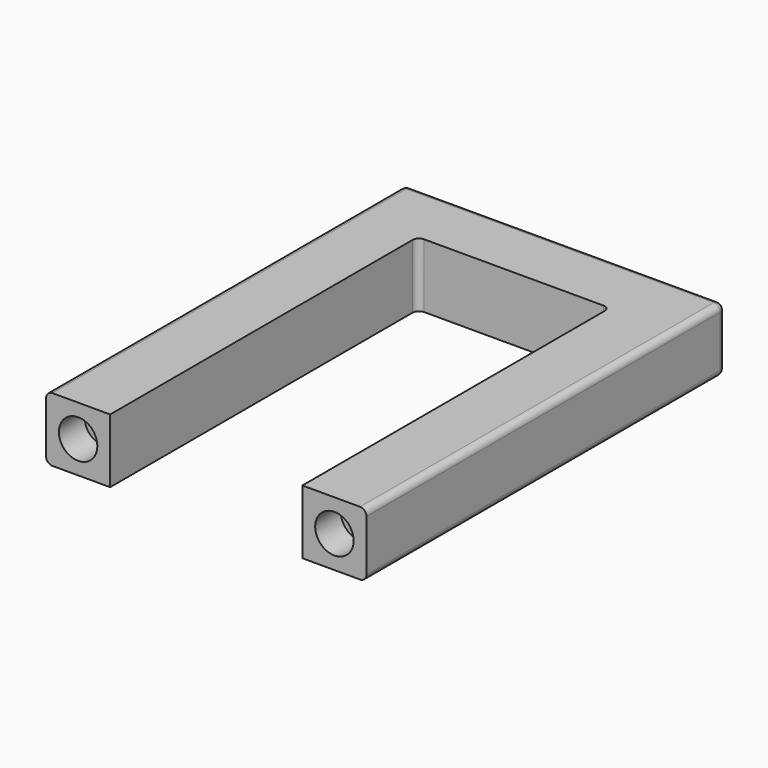
from build123d import *

# Parameters (mm, degrees)
PAD_DEPTH    = 10
FILLET_R     = 1
FILLET001_R  = 1
FILLET002_R  = 1
FILLET003_R  = 1
FILLET004_R  = 1
FILLET005_R  = 1
SKETCH001_R  = 3
POCKET_DEPTH = 5


with BuildPart() as part:
    # Sketch → Pad (new body)
    with BuildSketch(Plane.XY):
        Polygon((20, 70), (20, 10), (10, 10), (10, 80), (60, 80), (60, 10), (50, 10), (50, 70), align=None)
    extrude(amount=PAD_DEPTH)

    # Fillet
    fillet_edges = [part.edges().sort_by_distance(p)[0] for p in [
        (35, 80, 10),
    ]]
    fillet(fillet_edges, radius=FILLET_R)

    # Fillet001
    fillet001_edges = [part.edges().sort_by_distance(p)[0] for p in [
        (60, 44.5, 10),
    ]]
    fillet(fillet001_edges, radius=FILLET001_R)

    # Fillet002
    fillet002_edges = [part.edges().sort_by_distance(p)[0] for p in [
        (10, 44.5, 10),
    ]]
    fillet(fillet002_edges, radius=FILLET002_R)

    # Fillet003
    fillet003_edges = [part.edges().sort_by_distance(p)[0] for p in [
        (10, 44.5, 0),
    ]]
    fillet(fillet003_edges, radius=FILLET003_R)

    # Fillet004
    fillet004_edges = [part.edges().sort_by_distance(p)[0] for p in [
        (20, 70, 5),
    ]]
    fillet(fillet004_edges, radius=FILLET004_R)

    # Fillet005
    fillet005_edges = [part.edges().sort_by_distance(p)[0] for p in [
        (50, 70, 5),
    ]]
    fillet(fillet005_edges, radius=FILLET005_R)

    # Sketch001 (on Face8 of Fillet005) → Pocket (cut)
    with BuildSketch(Plane.XZ.offset(-10)):
        with Locations((15, 5)):
            Circle(SKETCH001_R)
        with Locations((55, 5)):
            Circle(SKETCH001_R)
    extrude(amount=-POCKET_DEPTH, mode=Mode.SUBTRACT)


solid = part.part
